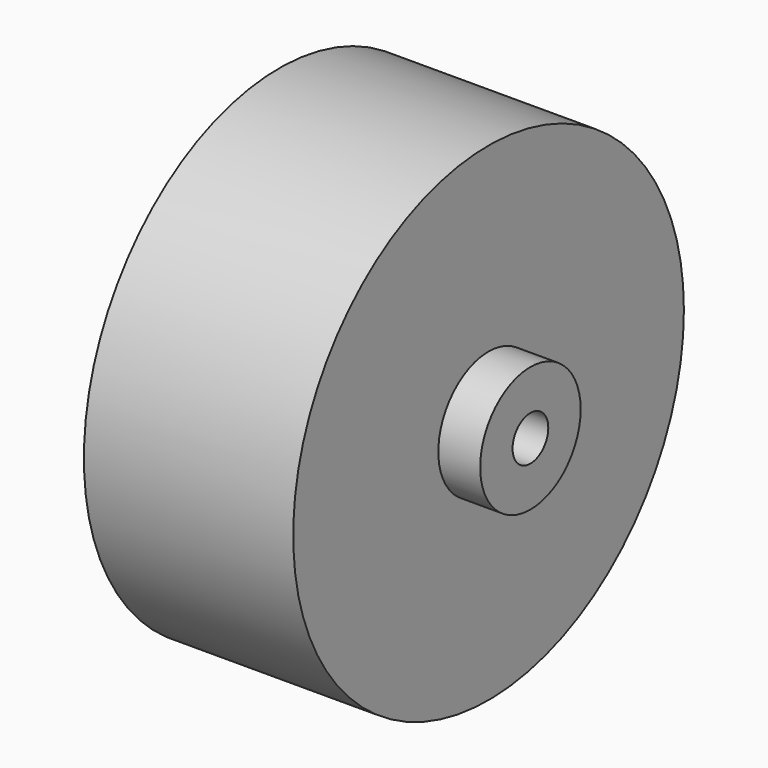
from build123d import *

# Parameters (mm, degrees)
F0_R     = 17.5
F1_DEPTH = 15
F2_R     = 4.5
F3_DEPTH = 3
F4_R     = 1.6
F5_DEPTH = 5


with BuildPart() as f1:
    # F0 (on Right) → F1 (new body)
    with BuildSketch(Plane.YZ):
        Circle(F0_R)
    extrude(amount=F1_DEPTH)

    # F2 (on face) → F3 (join)
    with BuildSketch(Plane.YZ.offset(15)):
        Circle(F2_R)
    extrude(amount=F3_DEPTH)

    # F4 (on face) → F5 (cut)
    with BuildSketch(Plane.YZ.offset(18)):
        Circle(F4_R)
    extrude(amount=-F5_DEPTH, mode=Mode.SUBTRACT)


solid = f1.part
